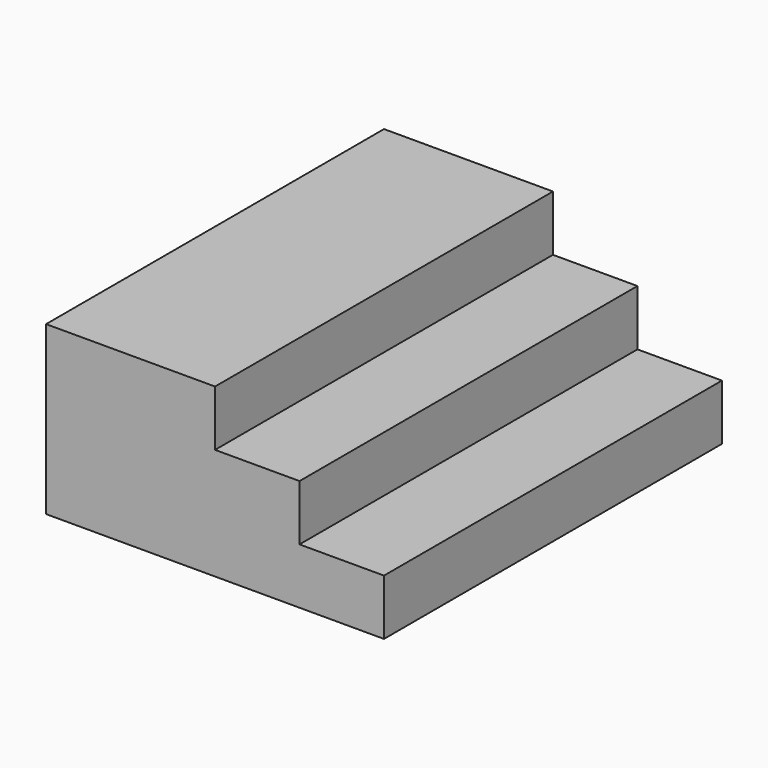
from build123d import *

# Parameters (mm, degrees)
F0_W     = 50.8
F0_H     = 16.764
F1_DEPTH = 127


with BuildPart() as f1:
    # F0 (on Front) → F1 (new body)
    with BuildSketch(Plane.XZ):
        with Locations((25.4, -8.382)):
            Rectangle(F0_W, F0_H)
        Polygon((50.8, -16.764), (0, -16.764), (0, -33.528), (76.2, -33.528), (76.2, -16.764), align=None)
        Polygon((76.2, -33.528), (0, -33.528), (0, -50.292), (101.6, -50.292), (101.6, -33.528), align=None)
    extrude(amount=F1_DEPTH)


solid = f1.part
